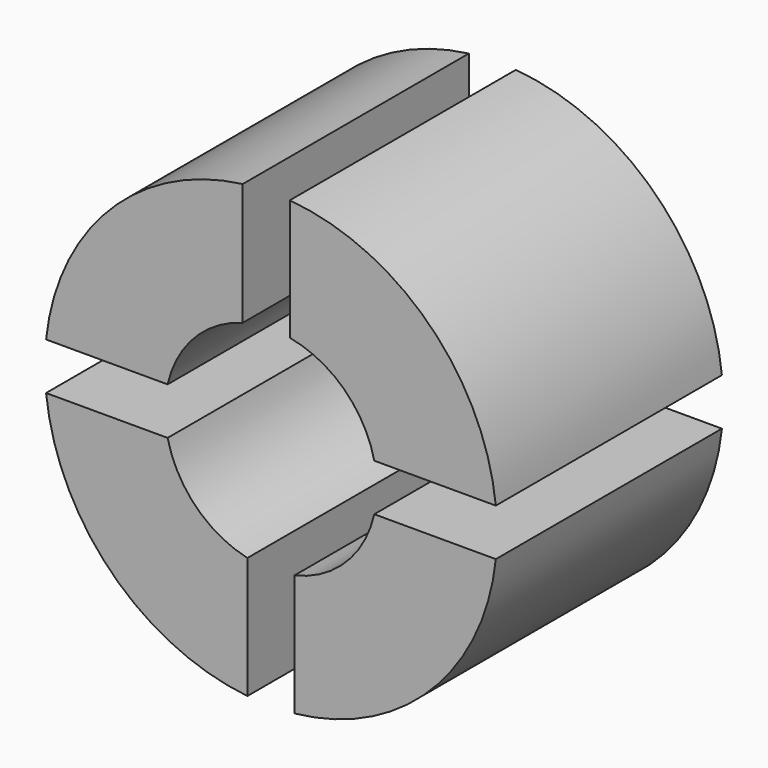
from build123d import *

# Parameters (mm, degrees)
F1_DEPTH = 6


with BuildPart() as f1:
    # F0 (on Front) → F1 (new body)
    with BuildSketch(Plane.XZ):
        with BuildLine():
            Line((-23.131191, 21.920662), (-23.131191, 24.514461))
            ThreePointArc((-23.131191, 24.514461), (-25.960829, 23.110489), (-27.305267, 20.252085))
            Line((-27.305267, 20.252085), (-24.72512, 20.252085))
            ThreePointArc((-24.72512, 20.252085), (-24.158346, 21.306266), (-23.131191, 21.920662))
        make_face()
        with BuildLine():
            Line((-20.337638, 20.252085), (-17.757492, 20.252085))
            ThreePointArc((-17.757492, 20.252085), (-19.172975, 23.181534), (-22.13141, 24.535392))
            Line((-22.13141, 24.535392), (-22.13141, 21.966249))
            ThreePointArc((-22.13141, 21.966249), (-20.976894, 21.378761), (-20.337638, 20.252085))
        make_face()
        with BuildLine():
            ThreePointArc((-22.031379, 14.978197), (-19.137267, 16.357972), (-17.757492, 19.252085))
            Line((-17.757492, 19.252085), (-20.337638, 19.252085))
            ThreePointArc((-20.337638, 19.252085), (-20.940389, 18.161095), (-22.031379, 17.558344))
            Line((-22.031379, 17.558344), (-22.031379, 14.978197))
        make_face()
        with BuildLine():
            ThreePointArc((-27.305267, 19.252085), (-25.925492, 16.357972), (-23.031379, 14.978197))
            Line((-23.031379, 14.978197), (-23.031379, 17.558344))
            ThreePointArc((-23.031379, 17.558344), (-24.12237, 18.161095), (-24.72512, 19.252085))
            Line((-24.72512, 19.252085), (-27.305267, 19.252085))
        make_face()
    extrude(amount=F1_DEPTH)


solid = f1.part
